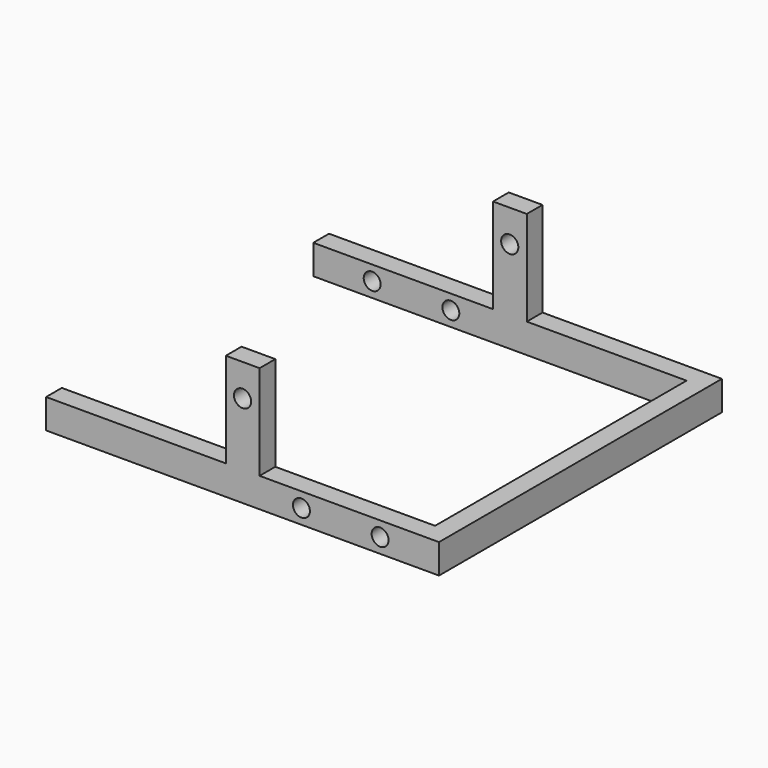
from build123d import *

# Parameters (mm, degrees)
F0_W     = 23.1957846131
F0_H     = 3.81
F0_W_2   = 4.3642977253
F0_H_2   = 12.2541113061
F0_W_3   = 23.2399176616
F1_DEPTH = 2.54
F3_R     = 1.095
F3_R_2   = 1.1118429646
F5_DEPTH = 2.54
F6_W     = 40.64
F6_H     = 3.81
F7_DEPTH = 2.54
F8_R     = 1.095
F8_R_2   = 1.1118429646
F9_DEPTH = 2.54


with BuildPart() as f1:
    # F0 (on Front) → F1 (new body)
    with BuildSketch(Plane.XZ):
        with Locations((13.8021076934, 0)):
            Rectangle(F0_W, F0_H)
        with Locations((0.0220665243, 0)):
            Rectangle(F0_W_2, F0_H)
        with Locations((0.0220665243, 8.032055653)):
            Rectangle(F0_W_2, F0_H_2)
        with Locations((-13.7800411692, 0)):
            Rectangle(F0_W_3, F0_H)
    extrude(amount=F1_DEPTH)


with BuildPart() as f1_1:
    # F2: moved
    add(f1.part.moved(Location((0, -20.32, 0))))


with BuildPart() as f4_1:
    # F4: instance of F1
    add(f1_1.part.mirror(Plane.XZ))


with BuildPart() as f1_2:
    add(f1_1.part)

    # F3 (on face) → F5 (cut, through all)
    with BuildSketch(Plane.XZ.offset(22.86)):
        with Locations((7.615, 0)):
            Circle(F3_R)
        with Locations((17.785, 0)):
            Circle(F3_R)
        with Locations((0, 10)):
            Circle(F3_R_2)
    extrude(amount=-F5_DEPTH, mode=Mode.SUBTRACT)

    add(f4_1.part)  # F7 merges F4_1
    # F6 (on face) → F7 (join)
    with BuildSketch(Plane.YZ.offset(25.4)):
        Rectangle(F6_W, F6_H)
    extrude(amount=-F7_DEPTH)

    # F8 (on face) → F9 (cut, through all)
    with BuildSketch(Plane(origin=(0, 22.86, 0), x_dir=(-1, 0, 0), z_dir=(0, 1, 0))):
        with Locations((7.615, 0)):
            Circle(F8_R)
        with Locations((17.785, 0)):
            Circle(F8_R)
        with Locations((0, 10)):
            Circle(F8_R_2)
    extrude(amount=-F9_DEPTH, mode=Mode.SUBTRACT)


solid = f1_2.part
